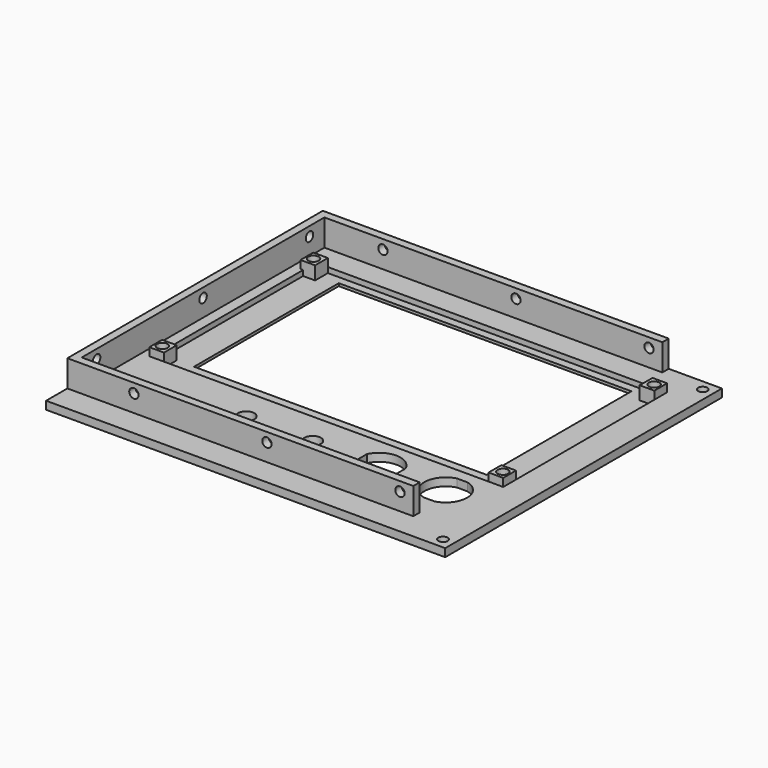
from build123d import *

# Parameters (mm, degrees)
SKETCH_W        = 150
SKETCH_H        = 130
SKETCH_R        = 1.75
SKETCH_W_2      = 110
SKETCH_H_2      = 68
PAD_DEPTH       = 3
SKETCH002_W     = 132
SKETCH002_H     = 77
POCKET001_DEPTH = 2.5
SKETCH007_W     = 5.5
SKETCH007_H     = 6
SKETCH007_R     = 2
PAD002_DEPTH    = 6
PAD003_DEPTH    = 10
SKETCH010_R     = 1.75
POCKET002_DEPTH = 6
SKETCH011_R     = 1.75
POCKET003_DEPTH = 7.5
SKETCH012_R     = 1.75
POCKET004_DEPTH = 7.5
SKETCH015_R     = 8
SKETCH015_R_2   = 3.1
POCKET_DEPTH    = 13.001
SKETCH016_W     = 3.968626
SKETCH016_H     = 0.25
SKETCH016_W_2   = 0.7
SKETCH016_H_2   = 6.545228
PAD004_DEPTH    = 3


with BuildPart() as part:
    # Sketch → Pad (new body)
    with BuildSketch(Plane.XY):
        with Locations((-75, -5)):
            Rectangle(SKETCH_W, SKETCH_H)
        with Locations((-141, 45)):
            Circle(SKETCH_R, mode=Mode.SUBTRACT)
        with Locations((-141, -26)):
            Circle(SKETCH_R, mode=Mode.SUBTRACT)
        with Locations((-13.5, 45)):
            Circle(SKETCH_R, mode=Mode.SUBTRACT)
        with Locations((-13.5, -26)):
            Circle(SKETCH_R, mode=Mode.SUBTRACT)
        with Locations((-4, 56)):
            Circle(SKETCH_R, mode=Mode.SUBTRACT)
        with Locations((-4, -66)):
            Circle(SKETCH_R, mode=Mode.SUBTRACT)
        with Locations((-77, 11)):
            Rectangle(SKETCH_W_2, SKETCH_H_2, mode=Mode.SUBTRACT)
    extrude(amount=PAD_DEPTH)

    # Sketch002 → Pocket001 (cut)
    with BuildSketch(Plane.XY.offset(3.5)):
        with Locations((-77, 9.5)):
            Rectangle(SKETCH002_W, SKETCH002_H)
    extrude(amount=-POCKET001_DEPTH, mode=Mode.SUBTRACT)

    # Sketch007 → Pad002 (join)
    with BuildSketch(Plane.XY):
        with Locations((-141.25, 45)):
            Rectangle(SKETCH007_W, SKETCH007_H)
        with Locations((-141.5, 45)):
            Circle(SKETCH007_R, mode=Mode.SUBTRACT)
        with Locations((-13.75, 45)):
            Rectangle(SKETCH007_W, SKETCH007_H)
        with Locations((-13.5, 45)):
            Circle(SKETCH007_R, mode=Mode.SUBTRACT)
        with Locations((-13.75, -26)):
            Rectangle(SKETCH007_W, SKETCH007_H)
        with Locations((-13.5, -26)):
            Circle(SKETCH007_R, mode=Mode.SUBTRACT)
        with Locations((-141.25, -26)):
            Rectangle(SKETCH007_W, SKETCH007_H)
        with Locations((-141.5, -26)):
            Circle(SKETCH007_R, mode=Mode.SUBTRACT)
    extrude(amount=PAD002_DEPTH)

    # Sketch003 (on DatumPlane) → Pad003 (join)
    with BuildSketch(Plane.XY.offset(3)):
        Polygon((-20, 60), (-150, 60), (-150, -60), (-20, -60), (-20, -57), (-147, -57), (-147, 57), (-20, 57), align=None)
    extrude(amount=PAD003_DEPTH)

    # Sketch010 → Pocket002 (cut)
    with BuildSketch(Plane.XZ.offset(60)):
        with Locations((-125, 9.5)):
            Circle(SKETCH010_R)
        with Locations((-25, 9.5)):
            Circle(SKETCH010_R)
        with Locations((-75, 9.5)):
            Circle(SKETCH010_R)
    extrude(amount=-POCKET002_DEPTH, mode=Mode.SUBTRACT)

    # Sketch011 → Pocket003 (cut, symmetric)
    with BuildSketch(Plane.XZ.offset(-60)):
        with Locations((-75, 9.5)):
            Circle(SKETCH011_R)
        with Locations((-25, 9.5)):
            Circle(SKETCH011_R)
        with Locations((-125, 9.5)):
            Circle(SKETCH011_R)
    extrude(amount=POCKET003_DEPTH, both=True, mode=Mode.SUBTRACT)

    # Sketch012 (on DatumPlane) → Pocket004 (cut, symmetric)
    with BuildSketch(Plane.YZ.offset(-150)):
        with Locations((0, 9.5)):
            Circle(SKETCH012_R)
        with Locations((50, 9.5)):
            Circle(SKETCH012_R)
        with Locations((-50, 9.5)):
            Circle(SKETCH012_R)
    extrude(amount=POCKET004_DEPTH, both=True, mode=Mode.SUBTRACT)

    # Sketch015 → Pocket (cut, through all)
    with BuildSketch(Plane(origin=(0, 0, 0), x_dir=(1, 0, 0), z_dir=(0, 0, -1))):
        with Locations((-48, 41)):
            Circle(SKETCH015_R)
        with Locations((-73, 41)):
            Circle(SKETCH015_R_2)
        with Locations((-98, 41)):
            Circle(SKETCH015_R_2)
        with Locations((-23, 41)):
            Circle(SKETCH015_R)
    extrude(amount=-POCKET_DEPTH, mode=Mode.SUBTRACT)

    # Sketch016 (on Face4 of Pocket) → Pad004 (join)
    with BuildSketch(Plane(origin=(0, 0, 0), x_dir=(1, 0, 0), z_dir=(0, 0, -1))):
        with Locations((-23, 48.875)):
            Rectangle(SKETCH016_W, SKETCH016_H)
        with Locations((-23, 33.125)):
            Rectangle(SKETCH016_W, SKETCH016_H)
        with Locations((-55.65, 41)):
            Rectangle(SKETCH016_W_2, SKETCH016_H_2)
        with Locations((-40.35, 41)):
            Rectangle(SKETCH016_W_2, SKETCH016_H_2)
    extrude(amount=-PAD004_DEPTH)


solid = part.part
